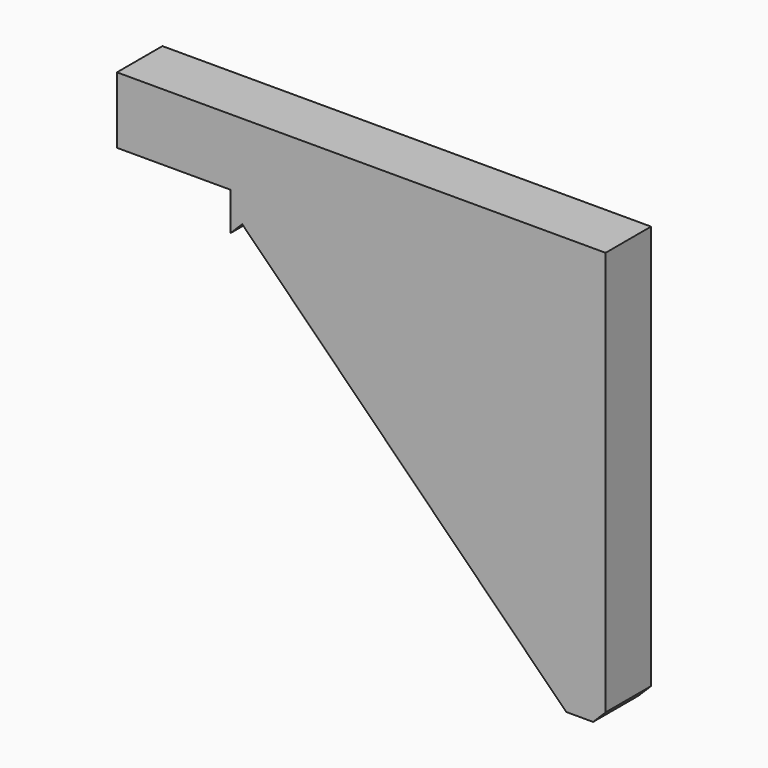
from build123d import *

# Parameters (mm, degrees)
BOX009_W               = 5
BOX009_H               = 85
BOX009_DEPTH           = 42
BOX009_PLACEMENT_ANGLE = 315
BOX008_W               = 7
BOX008_H               = 5
BOX008_DEPTH           = 36.85
BOX005_W               = 24
BOX005_H               = 85
BOX005_DEPTH           = 42
BOX005_PLACEMENT_ANGLE = 315
BOX003_W               = 40
BOX003_H               = 5
BOX003_DEPTH           = 30.85
BOX001_W               = 50
BOX001_H               = 5
BOX001_DEPTH           = 5.85


with BuildPart() as cube009:
    # Box009 → Box009 (new body)
    with BuildSketch(Plane.XY):
        with Locations((2.5, 42.5)):
            Rectangle(BOX009_W, BOX009_H)
    extrude(amount=BOX009_DEPTH)


with BuildPart() as cube009_1:
    # Box009 placement: moved
    add(cube009.part.moved(Location((82.4, 5, -62))).rotate(Axis((82.4, 5, -62), (0, 1, 0)), BOX009_PLACEMENT_ANGLE))


with BuildPart() as cube008:
    # Box008 → Box008 (new body)
    with BuildSketch(Plane(origin=(55.25, 85, -31), x_dir=(1, 0, 0), z_dir=(0, 0, 1))):
        with Locations((3.5, 2.5)):
            Rectangle(BOX008_W, BOX008_H)
    extrude(amount=BOX008_DEPTH)


with BuildPart() as cube005:
    # Box005 → Box005 (new body)
    with BuildSketch(Plane.XY):
        with Locations((12, 42.5)):
            Rectangle(BOX005_W, BOX005_H)
    extrude(amount=BOX005_DEPTH)


with BuildPart() as cube005_1:
    # Box005 placement: moved
    add(cube005.part.moved(Location((36, 5, -49))).rotate(Axis((36, 5, -49), (0, 1, 0)), BOX005_PLACEMENT_ANGLE))


with BuildPart() as cut001:
    # Box003 → Box003 (new body)
    with BuildSketch(Plane(origin=(22.25, 85, -30.85), x_dir=(1, 0, 0), z_dir=(0, 0, 1))):
        with Locations((20, 2.5)):
            Rectangle(BOX003_W, BOX003_H)
    extrude(amount=BOX003_DEPTH)

    # Cut001: cut Cube005
    add(cube005_1.part, mode=Mode.SUBTRACT)


with BuildPart() as cut004:
    # Box001 → Box001 (new body)
    with BuildSketch(Plane(origin=(12.25, 85, 0), x_dir=(1, 0, 0), z_dir=(0, 0, 1))):
        with Locations((25, 2.5)):
            Rectangle(BOX001_W, BOX001_H)
    extrude(amount=BOX001_DEPTH)

    # Fusion001: union Cut001
    add(cut001.part)

    # Cut003: cut Cube008
    add(cube008.part, mode=Mode.SUBTRACT)

    # Cut004: cut Cube009
    add(cube009_1.part, mode=Mode.SUBTRACT)


solid = cut004.part
